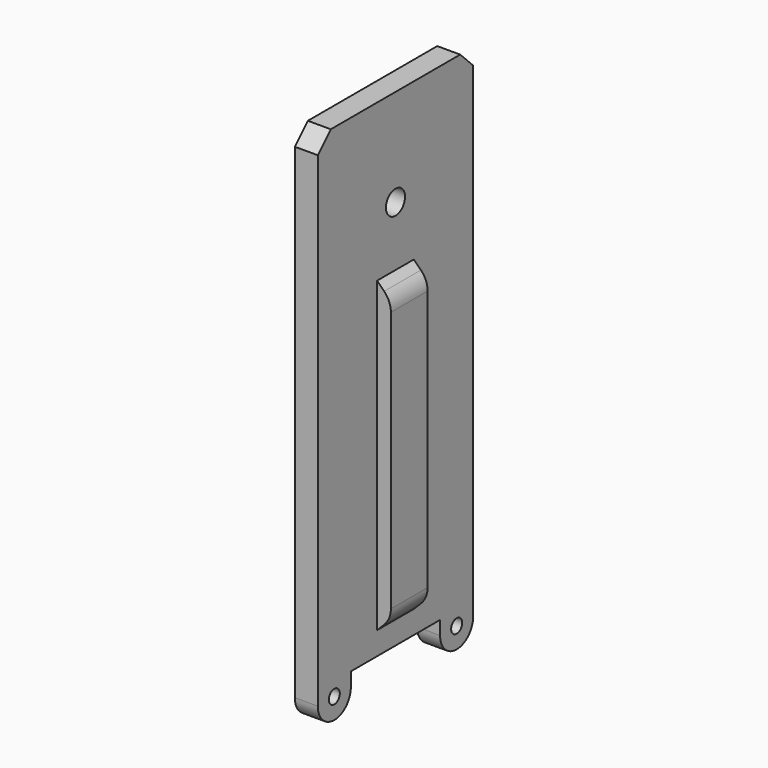
from build123d import *

# Parameters (mm, degrees)
SKETCH015_R   = 1.5
SKETCH015_R_2 = 2.6
PAD026_DEPTH  = 5
PAD033_DEPTH  = 5
FILLET004_R   = 5


with BuildPart() as part:
    # Sketch015 (on Face1 of Binder015) → Pad026 (new body)
    with BuildSketch(Plane(origin=(-223, 0, 0), x_dir=(0, -1, 0), z_dir=(-1, 0, 0))):
        with BuildLine():
            Line((-21.15, -85), (-21.15, -88))
            ThreePointArc((-21.15, -88), (-16.65, -92.5), (-12.15, -88))
            Line((-12.15, -88), (-12.15, -85))
            Line((-12.15, -85), (12.15, -85))
            Line((12.15, -85), (12.15, -88))
            ThreePointArc((12.15, -88), (16.65, -92.5), (21.15, -88))
            Line((21.15, -88), (21.15, -85))
            Line((21.15, -85), (21.15, 17.6144660941))
            Line((17.6144660941, 21.15), (21.15, 17.6144660941))
            Line((-17.6144660941, 21.15), (17.6144660941, 21.15))
            Line((-21.15, 17.6144660941), (-17.6144660941, 21.15))
            Line((-21.15, 17.6144660941), (-21.15, -85))
        make_face()
        with Locations((16.65, -88)):
            Circle(SKETCH015_R, mode=Mode.SUBTRACT)
        with Locations((-16.65, -88)):
            Circle(SKETCH015_R, mode=Mode.SUBTRACT)
        Circle(SKETCH015_R_2, mode=Mode.SUBTRACT)
    extrude(amount=PAD026_DEPTH)

    # Sketch083 (on DatumPlane) → Pad033 (join, symmetric)
    with BuildSketch(Plane(origin=(-224.6666666667, 0, -49.6166666667), x_dir=(1, 0, 0), z_dir=(0, -1, 0))):
        Polygon((1.6666666667, 36.6166666667), (4.6666666667, 33.6166666667), (4.6666666667, -27.3833333333), (1.6666666667, -30.3833333333), align=None)
    extrude(amount=PAD033_DEPTH, both=True)

    # Fillet004
    fillet004_edges = [part.edges().sort_by_distance(p)[0] for p in [
        (-220, 0, -16),
        (-220, 0, -77),
    ]]
    fillet(fillet004_edges, radius=FILLET004_R)


solid = part.part
